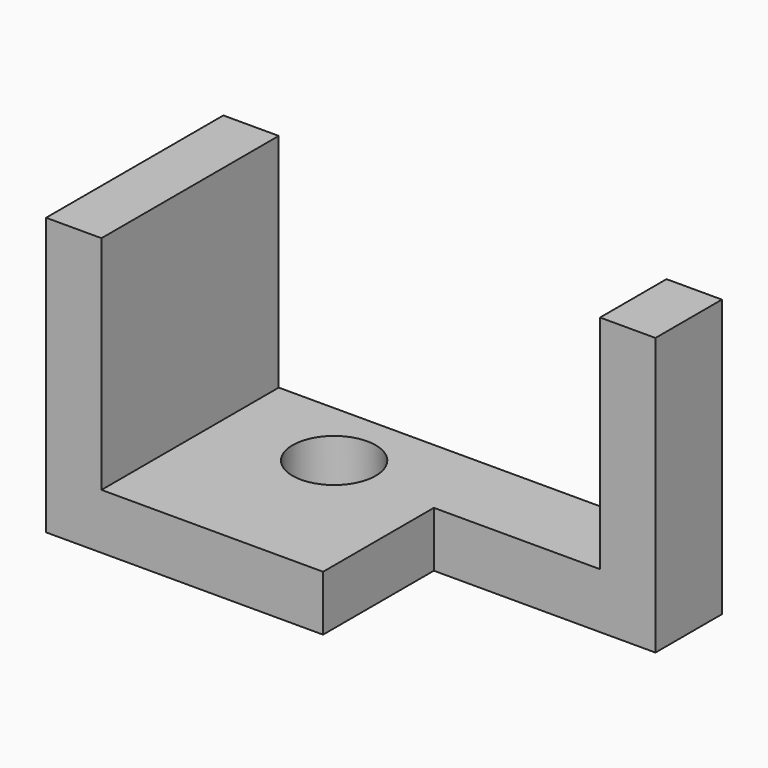
from build123d import *

# Parameters (mm, degrees)
F1_DEPTH = 20
F0_W     = 20
F0_H     = 80
F0_H_2   = 30
F2_DEPTH = 100
F4_D     = 30


with BuildPart() as f1:
    # F0 (on Top) → F1 (new body)
    with BuildSketch(Plane.XY):
        Polygon((111.985649, 39.813087), (-28.014351, 39.813087), (-28.014351, -40.186913), (51.985649, -40.186913), (51.985649, 9.813087), (111.985649, 9.813087), align=None)
    extrude(amount=F1_DEPTH)

    # F0 (on Top) → F2 (join)
    with BuildSketch(Plane.XY):
        with Locations((-38.014351, -0.186913)):
            Rectangle(F0_W, F0_H)
        with Locations((121.985649, 24.813087)):
            Rectangle(F0_W, F0_H_2)
    extrude(amount=F2_DEPTH)

    # F4 (through all)
    with Locations(Plane.XY.offset(20)):
        with Locations((11.985649, 14.813087)):
            Hole(F4_D / 2)


solid = f1.part
